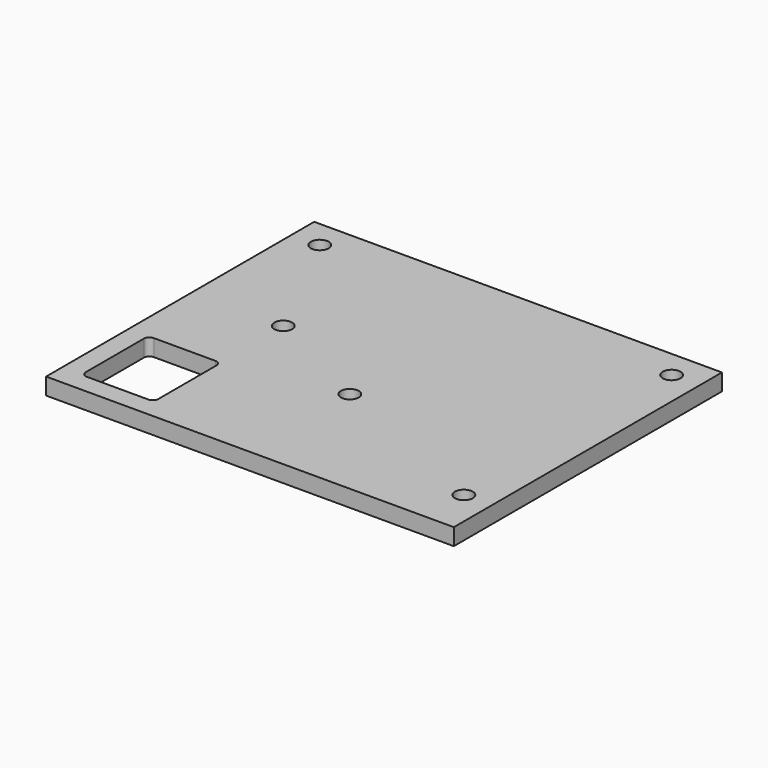
from build123d import *

# Parameters (mm, degrees)
F0_W     = 73
F0_H     = 60
F0_W_2   = 13
F0_H_2   = 15
F0_R     = 1.6
F1_DEPTH = 3
F2_R     = 1


with BuildPart() as f1:
    # F0 (on Top) → F1 (new body)
    with BuildSketch(Plane.XY):
        with Locations((-36.5, -30)):
            Rectangle(F0_W, F0_H)
        with Locations((-63, -49)):
            Rectangle(F0_W_2, F0_H_2, mode=Mode.SUBTRACT)
        with Locations((-5, -51.5)):
            Circle(F0_R, mode=Mode.SUBTRACT)
        with Locations((-36.5, -37.65)):
            Circle(F0_R, mode=Mode.SUBTRACT)
        with Locations((-56.700897, -27.295593)):
            Circle(F0_R, mode=Mode.SUBTRACT)
        with Locations((-68, -5)):
            Circle(F0_R, mode=Mode.SUBTRACT)
        with Locations((-5, -5)):
            Circle(F0_R, mode=Mode.SUBTRACT)
    extrude(amount=F1_DEPTH)

    # F2
    f2_edges = [f1.edges().sort_by_distance(p)[0] for p in [
        (-69.5, -41.5, 1.5),
        (-56.5, -56.5, 1.5),
        (-69.5, -56.5, 1.5),
        (-56.5, -41.5, 1.5),
    ]]
    fillet(f2_edges, radius=F2_R)


solid = f1.part
